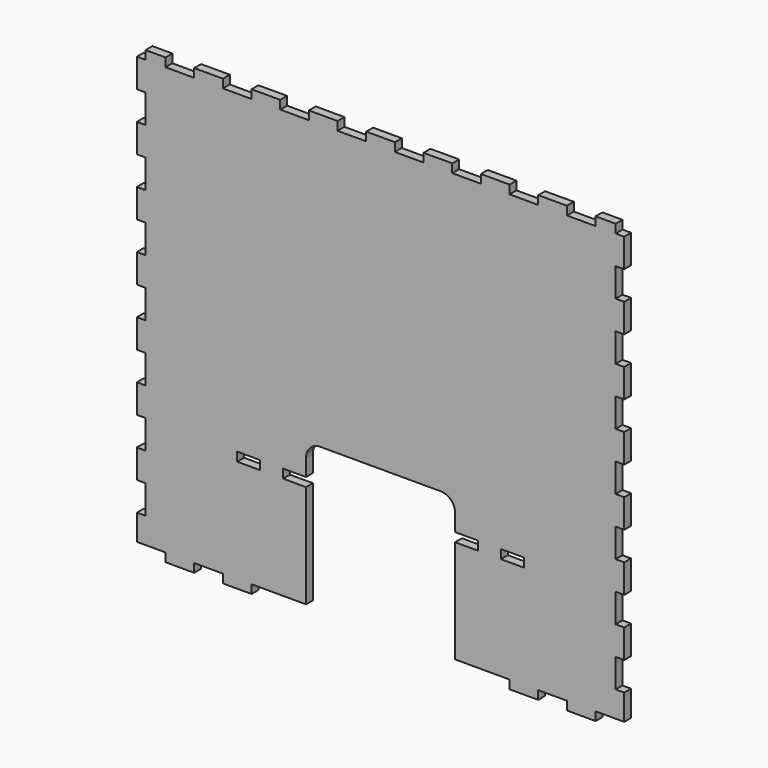
from build123d import *

# Parameters (mm, degrees)
F1_W     = 8
F1_H     = 3.1
F2_DEPTH = 3


with BuildPart() as f2:
    # F1 (on Front) → F2 (new body)
    with BuildSketch(Plane.XZ):
        with BuildLine():
            Line((82, 0), (82, 3))
            Line((82, 3), (75, 3))
            Line((75, 3), (75, 0))
            Line((75, 0), (65, 0))
            Line((65, 0), (65, 3))
            Line((65, 3), (55, 3))
            Line((55, 3), (55, 0))
            Line((55, 0), (45, 0))
            Line((45, 0), (45, 3))
            Line((45, 3), (35, 3))
            Line((35, 3), (35, 0))
            Line((35, 0), (25, 0))
            Line((25, 0), (25, 3))
            Line((25, 3), (15, 3))
            Line((15, 3), (15, 0))
            Line((15, 0), (5, 0))
            Line((5, 0), (5, 3))
            Line((5, 3), (-5, 3))
            Line((-5, 3), (-5, 0))
            Line((-5, 0), (-15, 0))
            Line((-15, 0), (-15, 3))
            Line((-15, 3), (-25, 3))
            Line((-25, 3), (-25, 0))
            Line((-25, 0), (-35, 0))
            Line((-35, 0), (-35, 3))
            Line((-35, 3), (-45, 3))
            Line((-45, 3), (-45, 0))
            Line((-45, 0), (-55, 0))
            Line((-55, 0), (-55, 3))
            Line((-55, 3), (-65, 3))
            Line((-65, 3), (-65, 0))
            Line((-65, 0), (-75, 0))
            Line((-75, 0), (-75, 3))
            Line((-75, 3), (-82, 3))
            Line((-82, 3), (-82, 0))
            Line((-82, 0), (-85, 0))
            Line((-85, 0), (-85, -10))
            Line((-85, -10), (-82, -10))
            Line((-82, -10), (-82, -20))
            Line((-82, -20), (-85, -20))
            Line((-85, -20), (-85, -30))
            Line((-85, -30), (-82, -30))
            Line((-82, -30), (-82, -40))
            Line((-82, -40), (-85, -40))
            Line((-85, -40), (-85, -50))
            Line((-85, -50), (-82, -50))
            Line((-82, -50), (-82, -60))
            Line((-82, -60), (-85, -60))
            Line((-85, -60), (-85, -70))
            Line((-85, -70), (-82, -70))
            Line((-82, -70), (-82, -80))
            Line((-82, -80), (-85, -80))
            Line((-85, -80), (-85, -90))
            Line((-85, -90), (-82, -90))
            Line((-82, -90), (-82, -100))
            Line((-82, -100), (-85, -100))
            Line((-85, -100), (-85, -110))
            Line((-85, -110), (-82, -110))
            Line((-82, -110), (-82, -120))
            Line((-82, -120), (-85, -120))
            Line((-85, -120), (-85, -130))
            Line((-85, -130), (-82, -130))
            Line((-82, -130), (-82, -140))
            Line((-82, -140), (-85, -140))
            Line((-85, -140), (-85, -149))
            Line((-85, -149), (-75, -149))
            Line((-75, -149), (-75, -152))
            Line((-75, -152), (-65, -152))
            Line((-65, -152), (-65, -149))
            Line((-65, -149), (-55, -149))
            Line((-55, -149), (-55, -152))
            Line((-55, -152), (-45, -152))
            Line((-45, -152), (-45, -149))
            Line((-45, -149), (-26, -149))
            Line((-26, -149), (-26, -113))
            Line((-26, -113), (-34, -113))
            Line((-34, -113), (-34, -109.9))
            Line((-34, -109.9), (-26, -109.9))
            Line((-26, -109.9), (-26, -104))
            ThreePointArc((-26, -104), (-24.535534, -100.464466), (-21, -99))
            Line((-21, -99), (21, -99))
            ThreePointArc((21, -99), (24.535534, -100.464466), (26, -104))
            Line((26, -104), (26, -109.9))
            Line((26, -109.9), (34, -109.9))
            Line((34, -109.9), (34, -113))
            Line((34, -113), (26, -113))
            Line((26, -113), (26, -149))
            Line((26, -149), (45, -149))
            Line((45, -149), (45, -152))
            Line((45, -152), (55, -152))
            Line((55, -152), (55, -149))
            Line((55, -149), (65, -149))
            Line((65, -149), (65, -152))
            Line((65, -152), (75, -152))
            Line((75, -152), (75, -149))
            Line((75, -149), (85, -149))
            Line((85, -149), (85, -140))
            Line((85, -140), (82, -140))
            Line((82, -140), (82, -130))
            Line((82, -130), (85, -130))
            Line((85, -130), (85, -120))
            Line((85, -120), (82, -120))
            Line((82, -120), (82, -110))
            Line((82, -110), (85, -110))
            Line((85, -110), (85, -100))
            Line((85, -100), (82, -100))
            Line((82, -100), (82, -90))
            Line((82, -90), (85, -90))
            Line((85, -90), (85, -80))
            Line((85, -80), (82, -80))
            Line((82, -80), (82, -70))
            Line((82, -70), (85, -70))
            Line((85, -70), (85, -60))
            Line((85, -60), (82, -60))
            Line((82, -60), (82, -50))
            Line((82, -50), (85, -50))
            Line((85, -50), (85, -40))
            Line((85, -40), (82, -40))
            Line((82, -40), (82, -30))
            Line((82, -30), (85, -30))
            Line((85, -30), (85, -20))
            Line((85, -20), (82, -20))
            Line((82, -20), (82, -10))
            Line((82, -10), (85, -10))
            Line((85, -10), (85, 0))
            Line((85, 0), (82, 0))
        make_face()
        with Locations((-46, -111.45)):
            Rectangle(F1_W, F1_H, mode=Mode.SUBTRACT)
        with Locations((46, -111.45)):
            Rectangle(F1_W, F1_H, mode=Mode.SUBTRACT)
    extrude(amount=F2_DEPTH)


solid = f2.part
